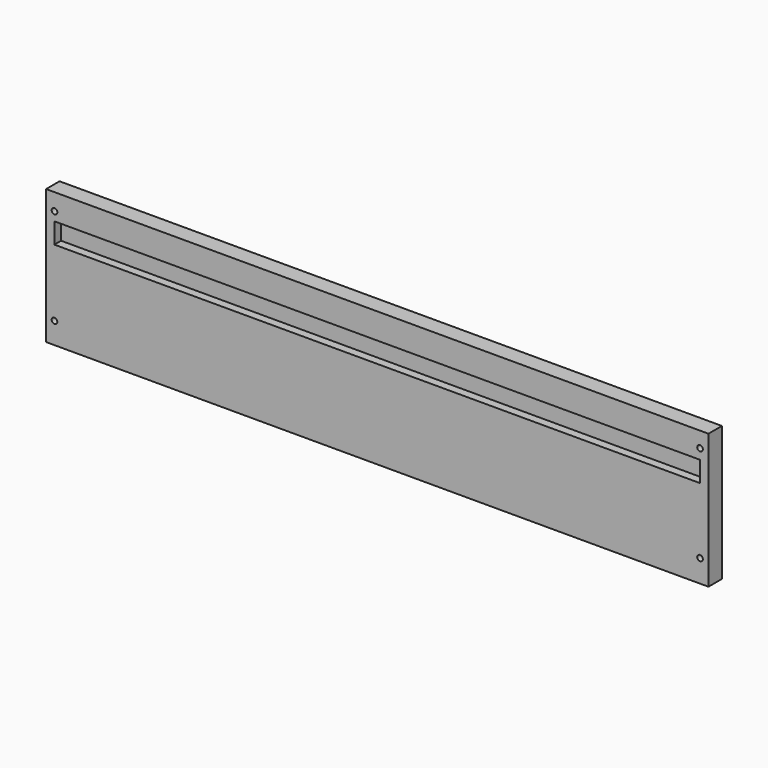
from build123d import *

# Parameters (mm, degrees)
F0_R     = 3.175
F1_DEPTH = 19.05
F2_DEPTH = 9.525


with BuildPart() as f1:
    # F0 (on Front) → F1 (new body)
    with BuildSketch(Plane.XZ):
        Polygon((-199.44117, 54.237713), (-218.49117, 54.237713), (-218.49117, 1.923238), (-209.164608, 1.923238), (-209.164608, 13.551676), (-209.164608, 25.180113), (521.482267, 25.180113), (521.482267, 13.551676), (521.482267, 1.923238), (530.80883, 1.923238), (530.80883, 54.237713), (511.75883, 54.237713), align=None)
        with Locations((-208.96617, 35.187713)):
            Circle(F0_R, mode=Mode.SUBTRACT)
        with Locations((521.28383, 36.655795)):
            Circle(F0_R, mode=Mode.SUBTRACT)
        Polygon((-209.164608, 1.923238), (-218.49117, 1.923238), (-218.49117, -98.162287), (-199.44117, -98.162287), (511.75883, -98.162287), (530.80883, -98.162287), (530.80883, 1.923238), (521.482267, 1.923238), align=None)
        with Locations((-208.96617, -73.952912)):
            Circle(F0_R, mode=Mode.SUBTRACT)
        with Locations((521.28383, -72.717049)):
            Circle(F0_R, mode=Mode.SUBTRACT)
    extrude(amount=F1_DEPTH)

    # F0 (on Front) → F2 (join)
    with BuildSketch(Plane.XZ):
        Polygon((-209.164608, 13.551676), (-209.164608, 1.923238), (521.482267, 1.923238), (521.482267, 13.551676), (521.482267, 25.180113), (-209.164608, 25.180113), align=None)
    extrude(amount=F2_DEPTH)


solid = f1.part
